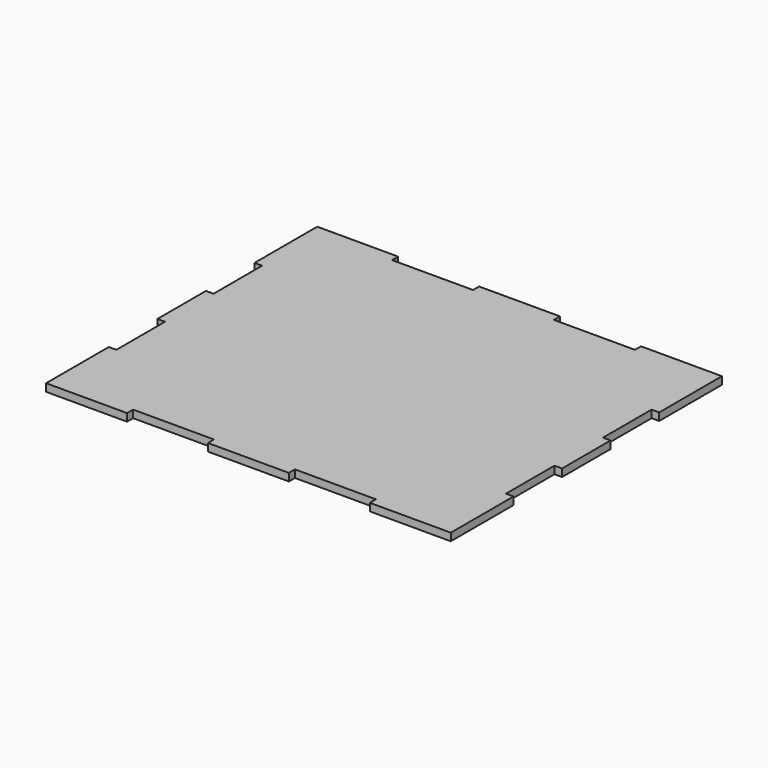
from build123d import *

# Parameters (mm, degrees)
F0_W     = 1016
F0_H     = 838.2
F1_DEPTH = 19.05
F2_W     = 12.7
F2_H     = 152.4
F2_W_2   = 19.05
F2_W_3   = 203.2
F2_H_2   = 19.05
F3_DEPTH = 19.051
F4_W     = 203.2
F4_H     = 6.35
F4_W_2   = 6.35
F4_H_2   = 152.4
F5_DEPTH = 19.05
F6_W     = 6.35
F6_H     = 152.4
F7_DEPTH = 19.051


with BuildPart() as f1:
    # F0 (on Top) → F1 (new body)
    with BuildSketch(Plane.XY):
        with Locations((-104.35828, 419.1)):
            Rectangle(F0_W, F0_H)
    extrude(amount=F1_DEPTH)

    # F2 (on face) → F3 (cut, through all)
    with BuildSketch(Plane.XY.offset(19.05)):
        with Locations((397.29172, 266.7)):
            Rectangle(F2_W, F2_H)
        with Locations((394.11672, 571.5)):
            Rectangle(F2_W_2, F2_H)
        with Locations((-606.00828, 266.7)):
            Rectangle(F2_W, F2_H)
        with Locations((-606.00828, 571.5)):
            Rectangle(F2_W, F2_H)
        with Locations((-307.55828, 9.525)):
            Rectangle(F2_W_3, F2_H_2)
        with Locations((98.84172, 9.525)):
            Rectangle(F2_W_3, F2_H_2)
        with Locations((98.84172, 828.675)):
            Rectangle(F2_W_3, F2_H_2)
        with Locations((-307.55828, 828.675)):
            Rectangle(F2_W_3, F2_H_2)
    extrude(amount=-F3_DEPTH, mode=Mode.SUBTRACT)

    # F4 (on face) → F5 (join)
    with BuildSketch(Plane.XY.offset(19.05)):
        with Locations((-510.75828, 841.375)):
            Rectangle(F4_W, F4_H)
        with Locations((98.84172, 822.325)):
            Rectangle(F4_W, F4_H)
        with Locations((-307.55828, 822.325)):
            Rectangle(F4_W, F4_H)
        with Locations((-104.35828, 841.375)):
            Rectangle(F4_W, F4_H)
        with Locations((302.04172, 841.375)):
            Rectangle(F4_W, F4_H)
        with Locations((-307.55828, 15.875)):
            Rectangle(F4_W, F4_H)
        with Locations((-510.75828, -3.175)):
            Rectangle(F4_W, F4_H)
        with Locations((98.84172, 15.875)):
            Rectangle(F4_W, F4_H)
        with Locations((302.04172, -3.175)):
            Rectangle(F4_W, F4_H)
        with Locations((-104.35828, -3.175)):
            Rectangle(F4_W, F4_H)
        with Locations((-596.48328, 266.7)):
            Rectangle(F4_W_2, F4_H_2)
        with Locations((-596.48328, 571.5)):
            Rectangle(F4_W_2, F4_H_2)
        with Locations((387.76672, 266.7)):
            Rectangle(F4_W_2, F4_H_2)
        with Locations((381.41672, 571.5)):
            Rectangle(F4_W_2, F4_H_2)
    extrude(amount=-F5_DEPTH)

    # F6 (on face) → F7 (cut, through all)
    with BuildSketch(Plane.XY.offset(19.05)):
        with Locations((-596.48328, 571.5)):
            Rectangle(F6_W, F6_H)
        with Locations((-596.48328, 266.7)):
            Rectangle(F6_W, F6_H)
        with Locations((387.76672, 266.7)):
            Rectangle(F6_W, F6_H)
        with Locations((387.76672, 571.5)):
            Rectangle(F6_W, F6_H)
    extrude(amount=-F7_DEPTH, mode=Mode.SUBTRACT)


solid = f1.part
